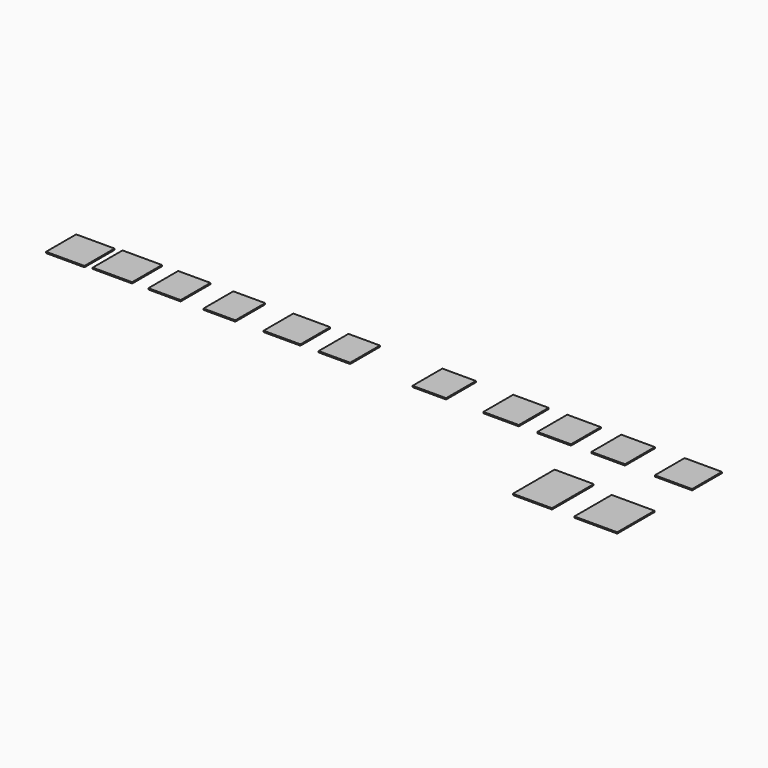
from build123d import *

# Parameters (mm, degrees)
F0_W     = 7.898539
F0_H     = 7.745967
F1_DEPTH = 0.254
F2_W     = 8.124254
F2_H     = 7.665709
F2_W_2   = 6.644231
F2_W_3   = 6.564021
F2_W_4   = 7.590809
F2_W_5   = 6.483817
F2_W_6   = 6.905935
F2_W_7   = 7.289597
F2_W_8   = 6.90595
F2_W_9   = 6.905936
F2_W_10  = 7.67326
F2_W_11  = 8.824244
F2_H_2   = 9.59158
F2_W_12  = 8.05692
F2_H_3   = 10.742568
F3_DEPTH = 0.254


with BuildPart() as f1:
    # F0 (on Top) → F1 (new body)
    with BuildSketch(Plane.XY):
        with Locations((-61.423794, 57.808909)):
            Rectangle(F0_W, F0_H)
    extrude(amount=F1_DEPTH)


with BuildPart() as f3:
    # F2 (on Top) → F3 (new body)
    with BuildSketch(Plane.XY):
        with Locations((-52.013062, 58.143086)):
            Rectangle(F2_W, F2_H)
        with Locations((-41.291961, 58.143086)):
            Rectangle(F2_W_2, F2_H)
        with Locations((-29.991257, 58.143086)):
            Rectangle(F2_W_3, F2_H)
        with Locations((-17.110273, 58.143086)):
            Rectangle(F2_W_4, F2_H)
        with Locations((-6.322965, 58.143086)):
            Rectangle(F2_W_5, F2_H)
        with Locations((13.222413, 58.143086)):
            Rectangle(F2_W_6, F2_H)
        with Locations((27.993443, 58.143086)):
            Rectangle(F2_W_7, F2_H)
        with Locations((38.927842, 58.143086)):
            Rectangle(F2_W_8, F2_H)
        with Locations((50.054081, 58.143086)):
            Rectangle(F2_W_9, F2_H)
        with Locations((63.482286, 58.143086)):
            Rectangle(F2_W_10, F2_H)
        with Locations((62.906794, 39.833151)):
            Rectangle(F2_W_11, F2_H_2)
        with Locations((49.862245, 40.408645)):
            Rectangle(F2_W_12, F2_H_3)
    extrude(amount=F3_DEPTH)


solid = Compound([f1.part, f3.part])
